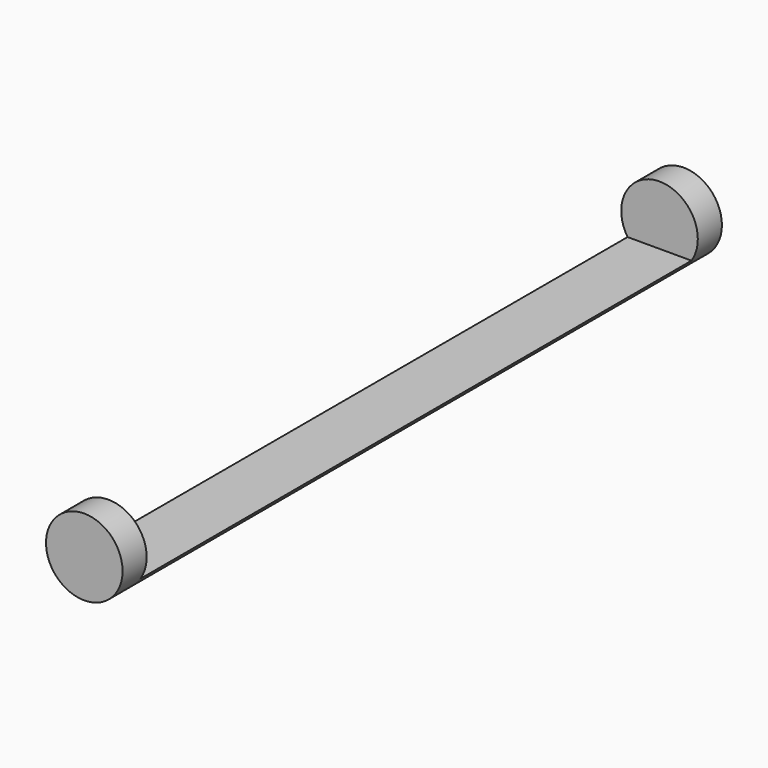
from build123d import *

# Parameters (mm, degrees)
F0_R     = 12.7
F1_DEPTH = 10
F3_DEPTH = 228.6
F4_R     = 12.7
F5_DEPTH = 10


with BuildPart() as f1:
    # F0 (on Front) → F1 (new body)
    with BuildSketch(Plane.XZ):
        Circle(F0_R)
    extrude(amount=F1_DEPTH)

    # F2 (on face) → F3 (join)
    with BuildSketch(Plane.XZ.offset(10)):
        with BuildLine():
            Line((10.6065911112, -6.985), (-10.6065911112, -6.985))
            ThreePointArc((-10.6065911112, -6.985), (0, -12.7), (10.6065911112, -6.985))
        make_face()
    extrude(amount=F3_DEPTH)

    # F4 (on face) → F5 (join)
    with BuildSketch(Plane.XZ.offset(238.6)):
        Circle(F4_R)
    extrude(amount=F5_DEPTH)


solid = f1.part
